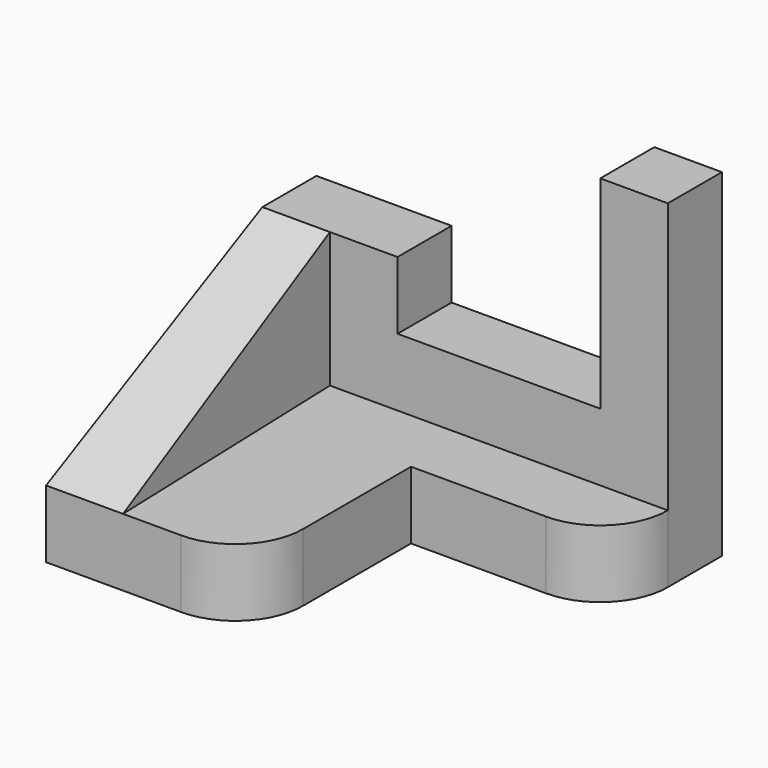
from build123d import *

# Parameters (mm, degrees)
F1_DEPTH  = 10
F2_R      = 10
F3_W      = 10
F3_H      = 10
F4_DEPTH  = 40
F5_W      = 30
F5_H      = 10
F6_DEPTH  = 10
F7_W      = 20
F7_H      = 10
F8_DEPTH  = 20
F10_DEPTH = 20
F11_SIZE2 = 40
F11_SIZE  = 20


with BuildPart() as f1:
    # F0 (on Top) → F1 (new body)
    with BuildSketch(Plane.XY):
        Polygon((60, 0), (0, 0), (0, -50), (30, -50), (30, -20), (60, -20), align=None)
    extrude(amount=F1_DEPTH)

    # F2
    f2_edges = [f1.edges().sort_by_distance(p)[0] for p in [
        (30, -50, 5),
        (60, -20, 5),
    ]]
    fillet(f2_edges, radius=F2_R)

    # F3 (on face) → F4 (join)
    with BuildSketch(Plane.XY.offset(10)):
        with Locations((55, -5)):
            Rectangle(F3_W, F3_H)
    extrude(amount=F4_DEPTH)

    # F5 (on face) → F6 (join)
    with BuildSketch(Plane.XY.offset(10)):
        with Locations((35, -5)):
            Rectangle(F5_W, F5_H)
    extrude(amount=F6_DEPTH)

    # F7 (on face) → F8 (join)
    with BuildSketch(Plane.XY.offset(10)):
        with Locations((10, -5)):
            Rectangle(F7_W, F7_H)
    extrude(amount=F8_DEPTH)

    # F9 (on face) → F10 (join)
    with BuildSketch(Plane.XY.offset(10)):
        Polygon((10, -10), (0, -10), (0, -50), (11.3857937977, -50), align=None)
    extrude(amount=F10_DEPTH)

    # F11
    f11_edges = [f1.edges().sort_by_distance(p)[0] for p in [
        (5.692897, -50, 30),
    ]]
    f11_side = f1.faces().sort_by_distance((7.706899, -50, 12.985998))[0]
    chamfer(f11_edges, length=F11_SIZE, length2=F11_SIZE2, reference=f11_side)


solid = f1.part
